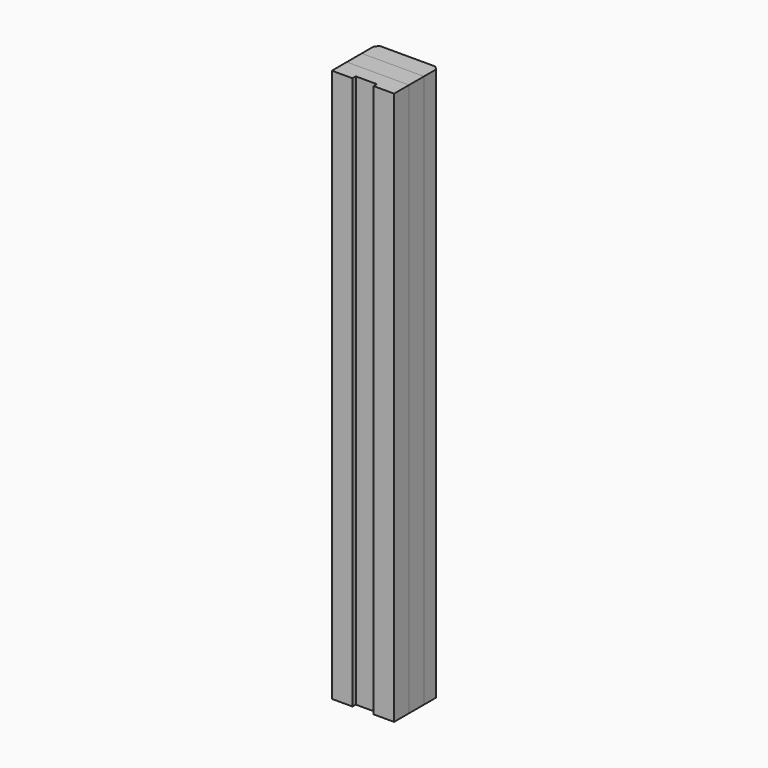
from build123d import *

# Parameters (mm, degrees)
F0_W     = 90
F0_H     = 27
F1_DEPTH = 800
F2_W     = 90
F2_H     = 27
F3_DEPTH = 800
F4_W     = 30.5
F4_H     = 800
F5_DEPTH = 6
F7_D     = 5
F7_DEPTH = 20
F7_TIP   = 1.5021515476
F8_SIZE  = 5


with BuildPart() as f1:
    # F0 (on Top) → F1 (new body)
    with BuildSketch(Plane.XY):
        Rectangle(F0_W, F0_H)
    extrude(amount=-F1_DEPTH)

    # F7
    with Locations(Plane(origin=(-45, 0, 0), x_dir=(0, -1, 0), z_dir=(-1, 0, 0))):
        with Locations((0, -25), (0, -205), (0, -385)):
            Hole(F7_D / 2, depth=F7_DEPTH)
            with Locations((0, 0, -(F7_DEPTH + F7_TIP / 2))):  # 118° drill point
                Cone(0, F7_D / 2, F7_TIP, mode=Mode.SUBTRACT)


with BuildPart() as f3:
    # F2 (on Top) → F3 (new body)
    with BuildSketch(Plane.XY):
        with Locations((0, 27)):
            Rectangle(F2_W, F2_H)
    extrude(amount=-F3_DEPTH)

    # F8
    f8_edges = [f3.edges().sort_by_distance(p)[0] for p in [
        (45, 40.5, -400),
        (-45, 40.5, -400),
    ]]
    chamfer(f8_edges, length=F8_SIZE)


with BuildPart() as f3b:
    # F2 (on Top) → F3, piece 2 (new body)
    with BuildSketch(Plane.XY):
        with Locations((0, -27)):
            Rectangle(F2_W, F2_H)
    extrude(amount=-F3_DEPTH)

    # F4 (on face) → F5 (cut)
    with BuildSketch(Plane.XZ.offset(40.5)):
        with Locations((0, -400)):
            Rectangle(F4_W, F4_H)
    extrude(amount=-F5_DEPTH, mode=Mode.SUBTRACT)


solid = Compound([f1.part, f3.part, f3b.part])
